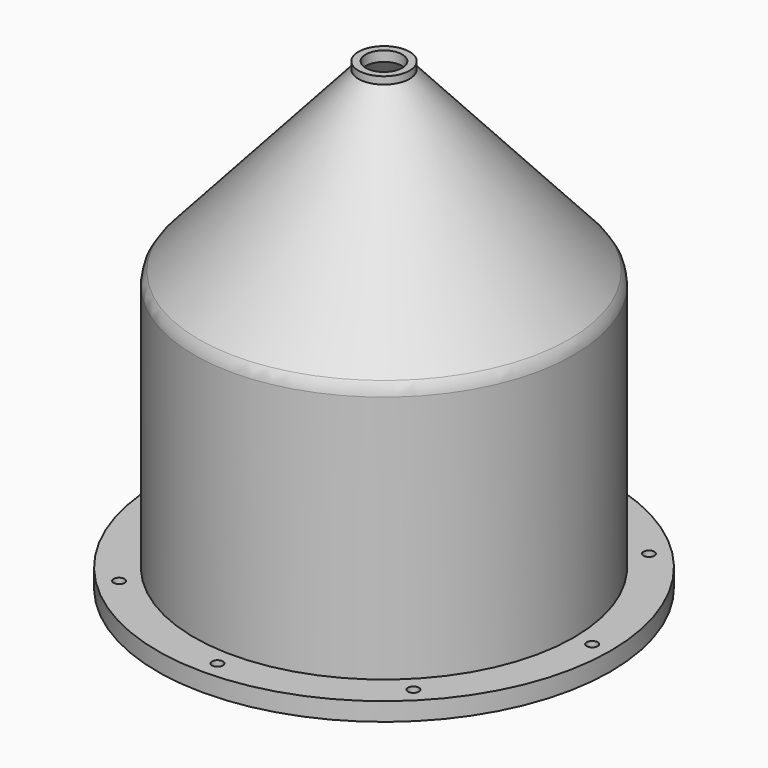
from build123d import *

# Parameters (mm, degrees)
F0_R      = 52
F1_DEPTH  = 75
F2_R      = 7
F3_DEPTH  = 2
F1_FACE_R = 52
F3_FACE_R = 7
F7_T      = -2
F8_R      = 5
F9_DEPTH  = 25
F10_R     = 62
F10_R_2   = 52
F11_DEPTH = 5
F13_D     = 3
F15_R     = 1.25
F17_R     = 5


with BuildPart() as f1:
    # F0 (on Top) → F1 (new body)
    with BuildSketch(Plane.XY):
        Circle(F0_R)
    extrude(amount=F1_DEPTH)


with BuildPart() as f3:
    # F2 (on face) → F3 (new body)
    with BuildSketch(Plane.XY.offset(75)):
        Circle(F2_R)
    extrude(amount=F3_DEPTH)


with BuildPart() as f3_1:
    # F4: moved
    add(f3.part.moved(Location((0, 0, 50))))


with BuildPart() as f5:
    # F1_face (on face) → F5 section 0
    with BuildSketch(Plane.XY.offset(75)):
        Circle(F1_FACE_R)
    # F3_face (on face) → F5 section 1
    with BuildSketch(Plane(origin=(0, 0, 125), x_dir=(1, 0, 0), z_dir=(0, 0, -1))):
        Circle(F3_FACE_R)
    loft()

    # F6: union F3, F1
    add(f3_1.part)
    add(f1.part)

    # F7
    f7_openings = [f5.faces().sort_by_distance(p)[0] for p in [
        (0, 0, 0),
    ]]
    offset(amount=F7_T, openings=f7_openings, kind=Kind.INTERSECTION)

    # F8 (on face) → F9 (cut)
    with BuildSketch(Plane.XY.offset(127)):
        Circle(F8_R)
    extrude(amount=-F9_DEPTH, mode=Mode.SUBTRACT)

    # F10 (on face) → F11 (join)
    with BuildSketch(Plane(origin=(0, 0, 0), x_dir=(1, 0, 0), z_dir=(0, 0, -1))):
        Circle(F10_R)
        Circle(F10_R_2, mode=Mode.SUBTRACT)
    extrude(amount=-F11_DEPTH)

    # F13 (through all)
    with Locations(Plane.XY.offset(5)):
        with Locations((0, 57), (40.3050865276, 40.3050865276), (57, 0), (40.3050865276, -40.3050865276), (0, -57), (-40.3050865276, -40.3050865276), (-57, 0), (-40.3050865276, 40.3050865276)):
            Hole(F13_D / 2)

    # F16: sweep along a path in F14
    with BuildLine(Plane(origin=(0, 0, 0), x_dir=(1, 0, 0), z_dir=(0, 0, -1))) as f16_path:
        CenterArc((0, 0), 52.5, 0, 360)
    # F15 (on Front) → F16 (sweep, cut)
    with BuildSketch(Plane.XZ):
        with Locations((-52.4801053107, 0)):
            Circle(F15_R)
    sweep(path=f16_path.line, mode=Mode.SUBTRACT)

    # F17
    f17_edges = [f5.edges().sort_by_distance(p)[0] for p in [
        (-52, 0, 75),
    ]]
    fillet(f17_edges, radius=F17_R)


solid = f5.part
